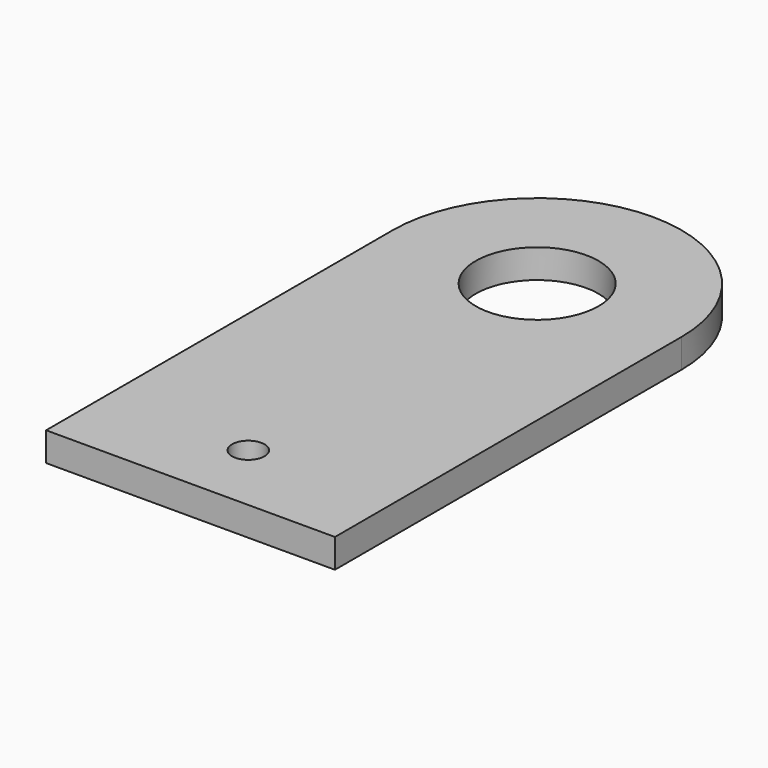
from build123d import *

# Parameters (mm, degrees)
F0_R     = 2.25
F0_R_2   = 8.5
F1_DEPTH = 4


with BuildPart() as f1:
    # F0 (on Top) → F1 (new body)
    with BuildSketch(Plane.XY):
        with BuildLine():
            Line((0, 60), (0, 0))
            Line((0, 0), (40, 0))
            Line((40, 0), (40, 60))
            ThreePointArc((40, 60), (20, 40), (0, 60))
        make_face()
        with Locations((20, 10)):
            Circle(F0_R, mode=Mode.SUBTRACT)
        with BuildLine():
            ThreePointArc((20, 80), (5.857864, 74.142136), (0, 60))
            ThreePointArc((0, 60), (20, 40), (40, 60))
            ThreePointArc((40, 60), (34.142136, 74.142136), (20, 80))
        make_face()
        with Locations((20, 60)):
            Circle(F0_R_2, mode=Mode.SUBTRACT)
    extrude(amount=F1_DEPTH)


solid = f1.part
